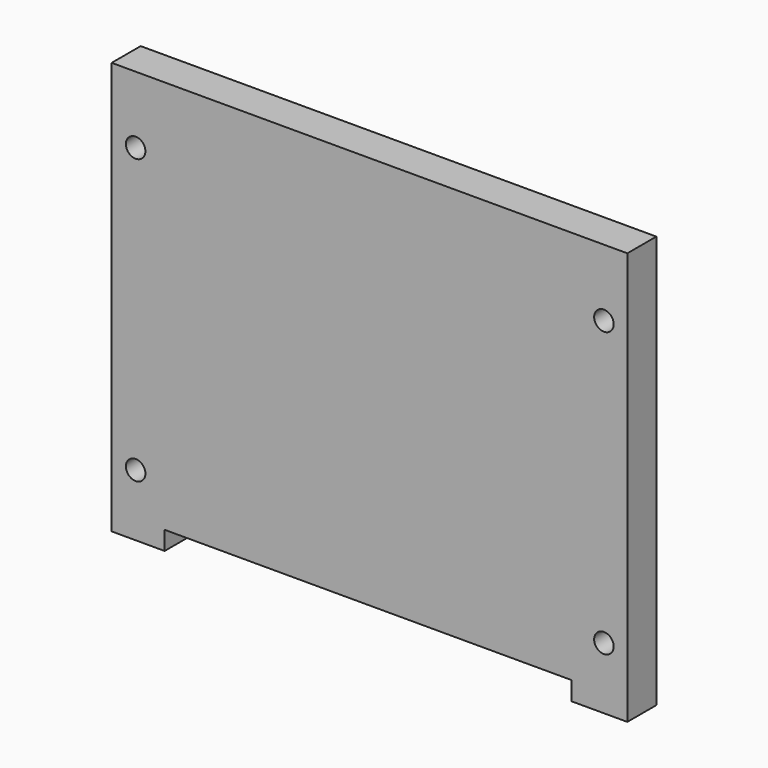
from build123d import *

# Parameters (mm, degrees)
F0_W     = 71.45
F0_H     = 53.85
F1_DEPTH = 6.5
F0_W_2   = 73
F0_H_2   = 3.35
F2_DEPTH = 4
F3_D     = 3.5


with BuildPart() as f1:
    # F0 (on Front) → F1 (new body)
    with BuildSketch(Plane.XZ):
        Polygon((-38.2, -34.05), (-38.2, 29.95), (38.8, 29.95), (38.8, -34.05), (36.8, -34.05), (36.8, -37.4), (46.8, -37.4), (46.8, 36.6), (-45.7, 36.6), (-45.7, -37.4), (-36.2, -37.4), (-36.2, -34.05), align=None)
        Polygon((38.8, 29.95), (-38.2, 29.95), (-38.2, -34.05), (-36.2, -34.05), (36.8, -34.05), (38.8, -34.05), align=None)
        with Locations((-0.025, -0.025)):
            Rectangle(F0_W, F0_H, mode=Mode.SUBTRACT)
        with Locations((-0.025, -0.025)):
            Rectangle(F0_W, F0_H)
    extrude(amount=F1_DEPTH)

    # F0 (on Front) → F2 (cut)
    with BuildSketch(Plane.XZ):
        Polygon((38.8, 29.95), (-38.2, 29.95), (-38.2, -34.05), (-36.2, -34.05), (36.8, -34.05), (38.8, -34.05), align=None)
        with Locations((-0.025, -0.025)):
            Rectangle(F0_W, F0_H, mode=Mode.SUBTRACT)
        with Locations((-0.025, -0.025)):
            Rectangle(F0_W, F0_H)
        with Locations((0.3, -35.725)):
            Rectangle(F0_W_2, F0_H_2)
    extrude(amount=F2_DEPTH, mode=Mode.SUBTRACT)

    # F3 (through all)
    with Locations(Plane(origin=(0, 0, 0), x_dir=(1, 0, 0), z_dir=(0, 1, 0))):
        with Locations((-41.4, -24.6), (42.6, -24.6), (42.6, 26.3), (-41.4, 26.3)):
            Hole(F3_D / 2)


solid = f1.part
